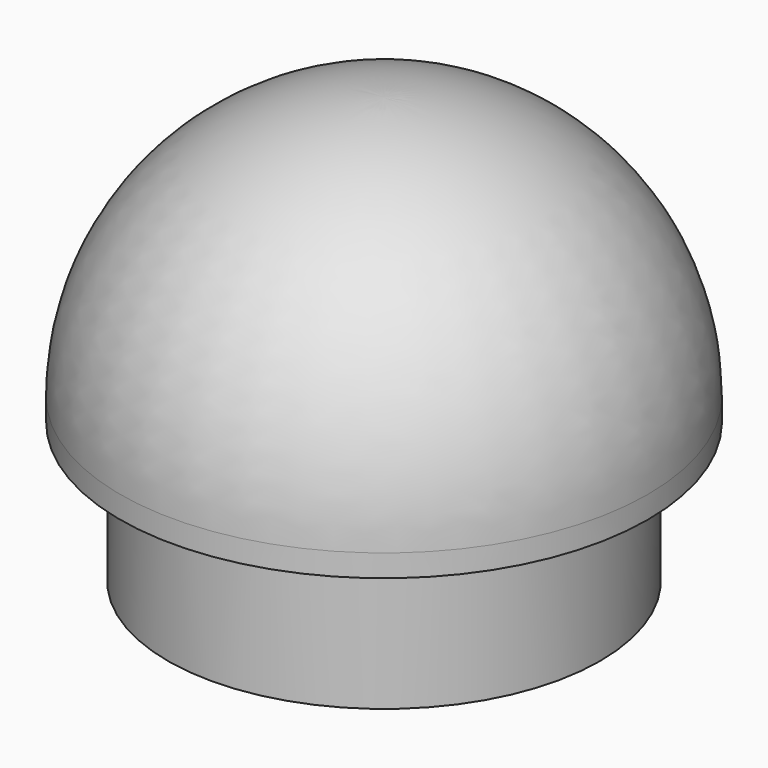
from build123d import *


with BuildPart() as f1:
    # F0 (on Front) → F1 (revolve)
    with BuildSketch(Plane.XZ):
        with BuildLine():
            Line((-17.272, 11.176), (-17.272, 0))
            Line((-17.272, 0), (0, 0))
            Line((0, 0), (0, 34.036))
            ThreePointArc((0, 34.036), (-14.907225, 27.861225), (-21.082, 12.954))
            Line((-21.082, 12.954), (-21.082, 11.176))
            Line((-21.082, 11.176), (-17.272, 11.176))
        make_face()
    revolve(axis=Axis((0, 0, 17.018), (0, 0, -1)))


solid = f1.part
